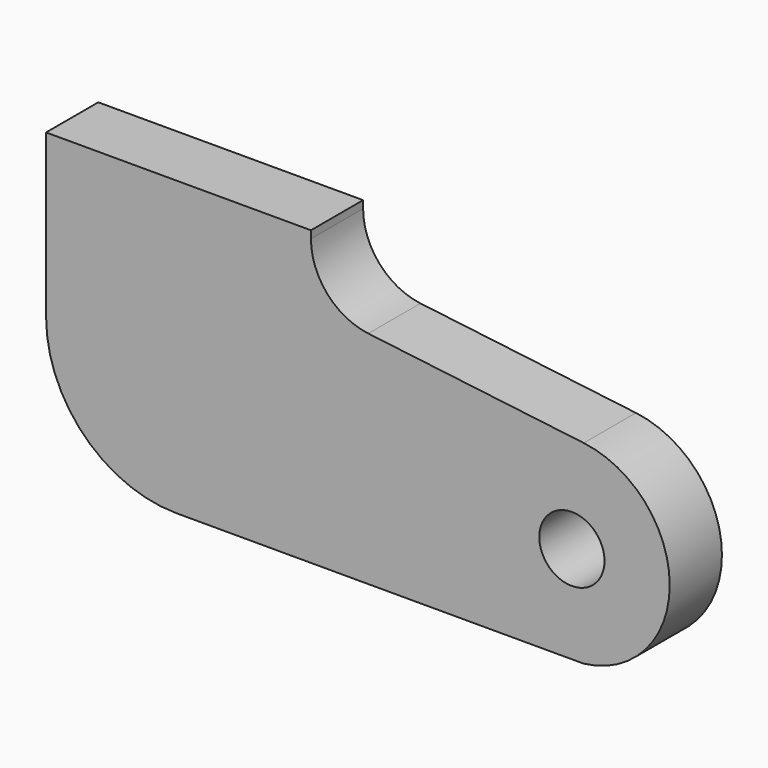
from build123d import *

# Parameters (mm, degrees)
F0_R     = 0.5
F1_DEPTH = 1


with BuildPart() as f1:
    # F0 (on Front) → F1 (new body)
    with BuildSketch(Plane.XZ):
        with BuildLine():
            Line((-6.060225, -1.489079), (0.180674, -1.489079))
            ThreePointArc((0.180674, -1.489079), (1.5, -0.000648), (0.181961, 1.488922))
            Line((0.181961, 1.488922), (-3.121307, 1.892615))
            ThreePointArc((-3.121307, 1.892615), (-3.748768, 2.222398), (-4, 2.88523))
            Line((-4, 2.88523), (-4, 3))
            Line((-4, 3), (-8.060225, 3))
            Line((-8.060225, 3), (-8.060225, 0.510921))
            ThreePointArc((-8.060225, 0.510921), (-7.474438, -0.903293), (-6.060225, -1.489079))
        make_face()
        Circle(F0_R, mode=Mode.SUBTRACT)
    extrude(amount=F1_DEPTH)


solid = f1.part
